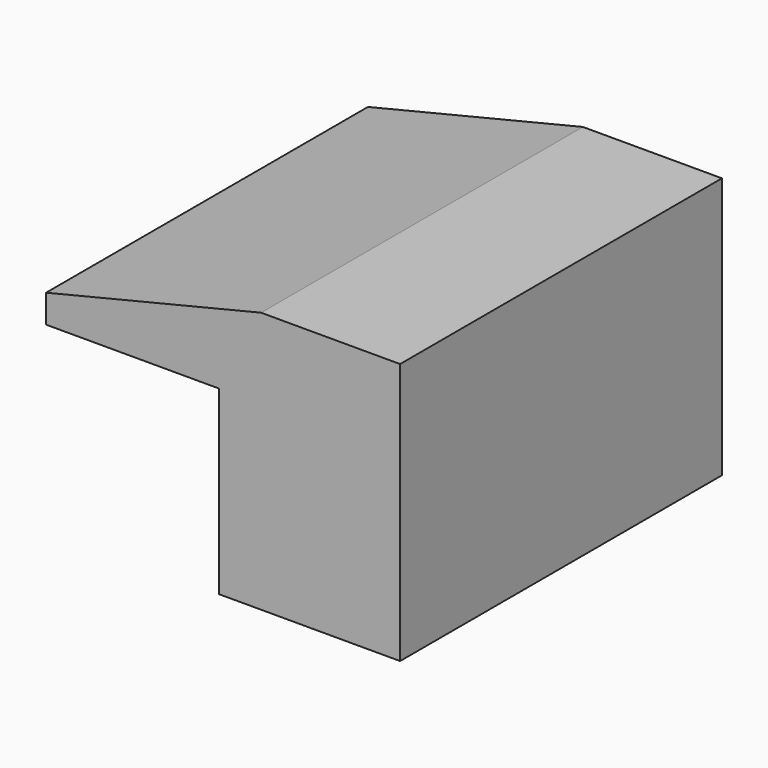
from build123d import *

# Parameters (mm, degrees)
F0_W          = 450
F0_H          = 50
F1_DEPTH      = 500
F1_DEPTH_BACK = 500


with BuildPart() as f1:
    # F0 (on Front) → F1 (new body, two sides)
    with BuildSketch(Plane.XZ) as f1_sk:
        Polygon((-20.51137, 356.582467), (-20.51137, -43.417533), (429.48863, -43.417533), (429.48863, 556.582467), (83.904198, 556.582467), (-450.51137, 426.582467), (-450.51137, 356.582467), align=None)
        with Locations((204.48863, -68.417533)):
            Rectangle(F0_W, F0_H)
    extrude(amount=F1_DEPTH)
    extrude(f1_sk.sketch, amount=-F1_DEPTH_BACK)


solid = f1.part
